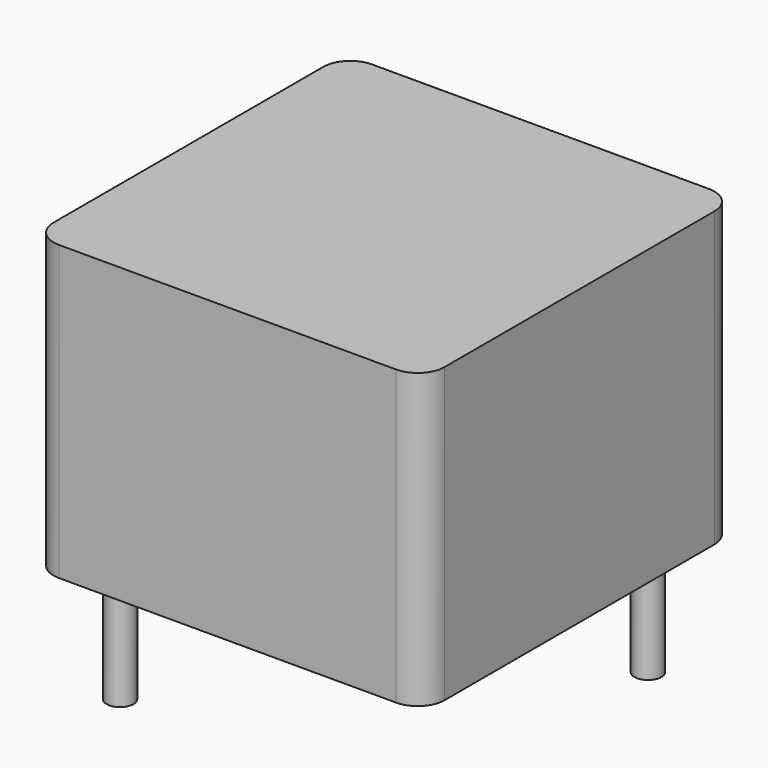
from build123d import *

# Parameters (mm, degrees)
SKETCH001_R  = 0.35
PAD001_DEPTH = 3.5
SKETCH_W     = 10.16
SKETCH_H     = 10.16
PAD_DEPTH    = 7.62
FILLET_R     = 0.7


with BuildPart() as pad001:
    # Sketch001 → Pad001 (new body)
    with BuildSketch(Plane.XY.offset(0.5)):
        Circle(SKETCH001_R)
        with Locations((7.62, 7.62)):
            Circle(SKETCH001_R)
    extrude(amount=-PAD001_DEPTH)


with BuildPart() as obj1:
    # Sketch → Pad (new body)
    with BuildSketch(Plane.XY.offset(0.1)):
        with Locations((3.81, 3.81)):
            Rectangle(SKETCH_W, SKETCH_H)
    extrude(amount=PAD_DEPTH)

    # Fillet
    fillet_edges = [obj1.edges().sort_by_distance(p)[0] for p in [
        (8.89, -1.27, 3.91),
        (8.89, 8.89, 3.91),
        (-1.27, -1.27, 3.91),
        (-1.27, 8.89, 3.91),
    ]]
    fillet(fillet_edges, radius=FILLET_R)

    # obj1: union Pad001
    add(pad001.part)


solid = obj1.part
